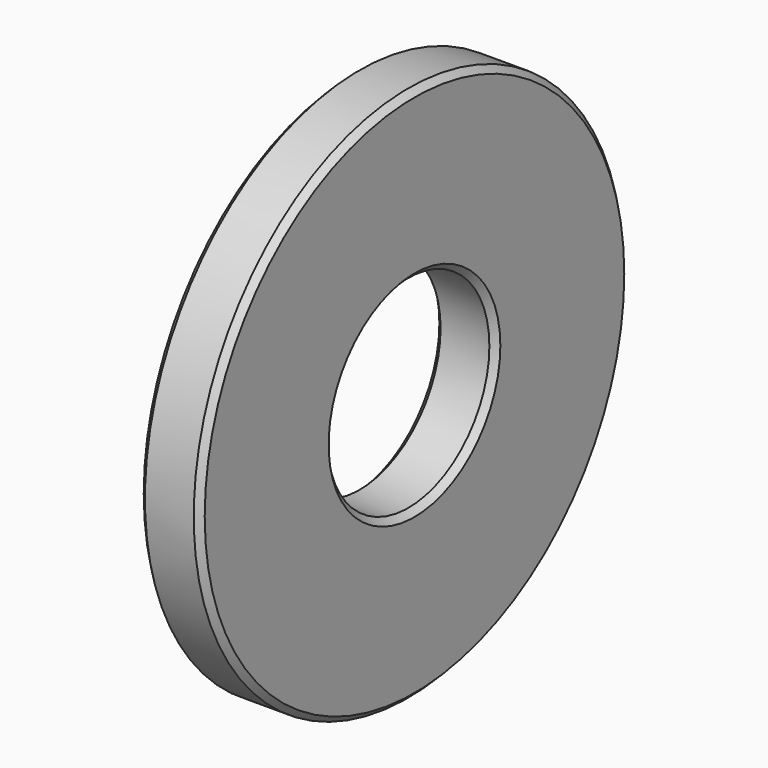
from build123d import *

# Parameters (mm, degrees)
F0_R     = 11
F0_R_2   = 4.15
F1_DEPTH = 2.5
F2_SIZE  = 0.25


with BuildPart() as f1:
    # F0 (on Right) → F1 (new body)
    with BuildSketch(Plane.YZ):
        Circle(F0_R)
        Circle(F0_R_2, mode=Mode.SUBTRACT)
    extrude(amount=F1_DEPTH)

    # F2
    f2_edges = [f1.edges().sort_by_distance(p)[0] for p in [
        (2.5, -11, 0),
        (2.5, -4.15, 0),
        (0, -4.15, 0),
        (0, -11, 0),
    ]]
    chamfer(f2_edges, length=F2_SIZE)


solid = f1.part
